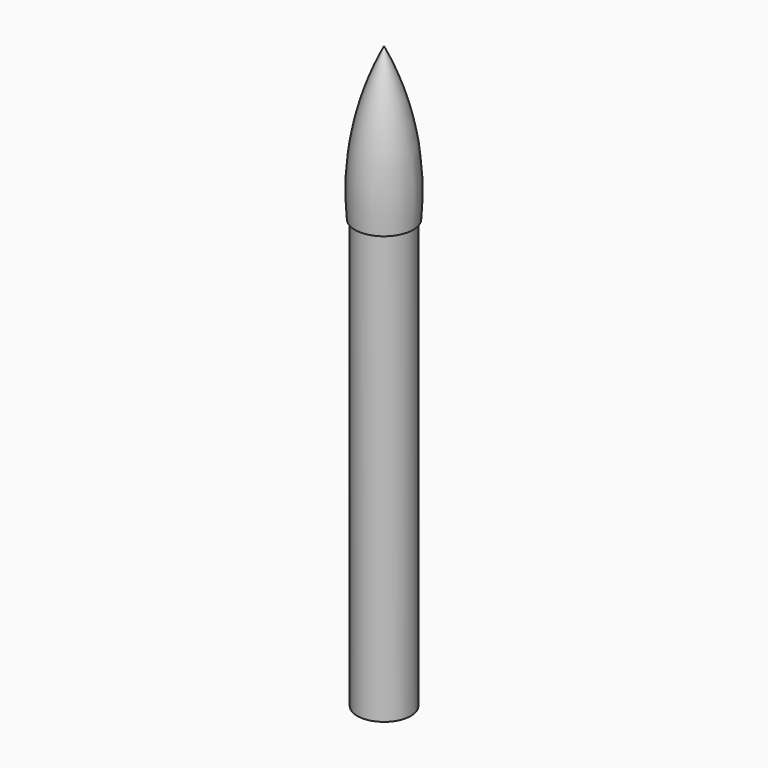
from build123d import *

# Parameters (mm, degrees)
F0_W      = 23.75
F0_H      = 15
F1_FACE_R = 23.75
F2_DEPTH  = 364.805341


with BuildPart() as f1:
    # F0 (on Front) → F1 (revolve)
    with BuildSketch(Plane.XZ):
        with BuildLine():
            Line((0, 135), (0, 0))
            Line((0, 0), (23.75, 0))
            Line((23.75, 0), (25.75, 0))
            ThreePointArc((25.75, 0), (22.368429, 69.310784), (0, 135))
        make_face()
        with Locations((11.875, -7.5)):
            Rectangle(F0_W, F0_H)
    revolve(axis=Axis((0, 0, 60), (0, 0, -1)))

    # F1_face (on face) → F2 (join)
    with BuildSketch(Plane(origin=(0, 0, -15), x_dir=(1, 0, 0), z_dir=(0, 0, -1))):
        Circle(F1_FACE_R)
    extrude(amount=F2_DEPTH)


solid = f1.part
